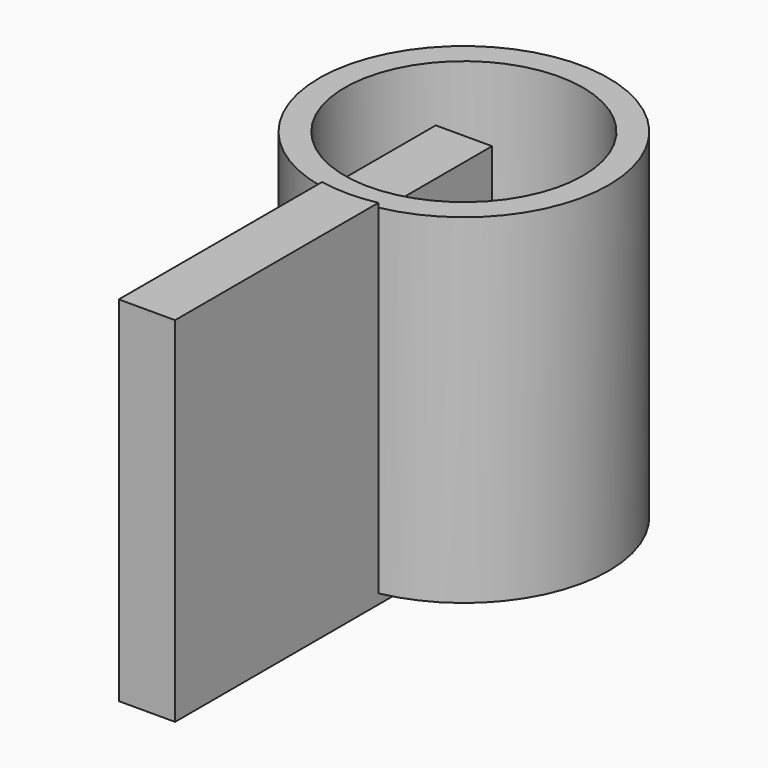
from build123d import *

# Parameters (mm, degrees)
F0_R     = 32.4890265079
F0_R_2   = 26.7459939795
F1_DEPTH = 50.8
F2_DEPTH = 25.4
F3_W     = 12.6311182976
F3_H     = 77.5911509991
F4_DEPTH = 88.9
F5_DEPTH = 1.7660884187


with BuildPart() as f1:
    # F0 (on Top) → F1 (new body)
    with BuildSketch(Plane.XY):
        Circle(F0_R)
        Circle(F0_R_2, mode=Mode.SUBTRACT)
    extrude(amount=F1_DEPTH)

    # F2 (add): a face of the model
    f2_faces = [f1.faces().sort_by_distance(p)[0] for p in [
        (-31.5700980696, 0, 0),
    ]]
    extrude(f2_faces, amount=F2_DEPTH)

    # F3 (on Front) → F4 (join)
    with BuildSketch(Plane.XZ):
        with Locations((0, 11.1875087023)):
            Rectangle(F3_W, F3_H)
    extrude(amount=F4_DEPTH)

    # F5 (add): a face of the model
    f5_faces = [f1.faces().sort_by_distance(p)[0] for p in [
        (0, -60.5913176327, 49.9830842018),
    ]]
    extrude(f5_faces, amount=F5_DEPTH)


solid = f1.part
